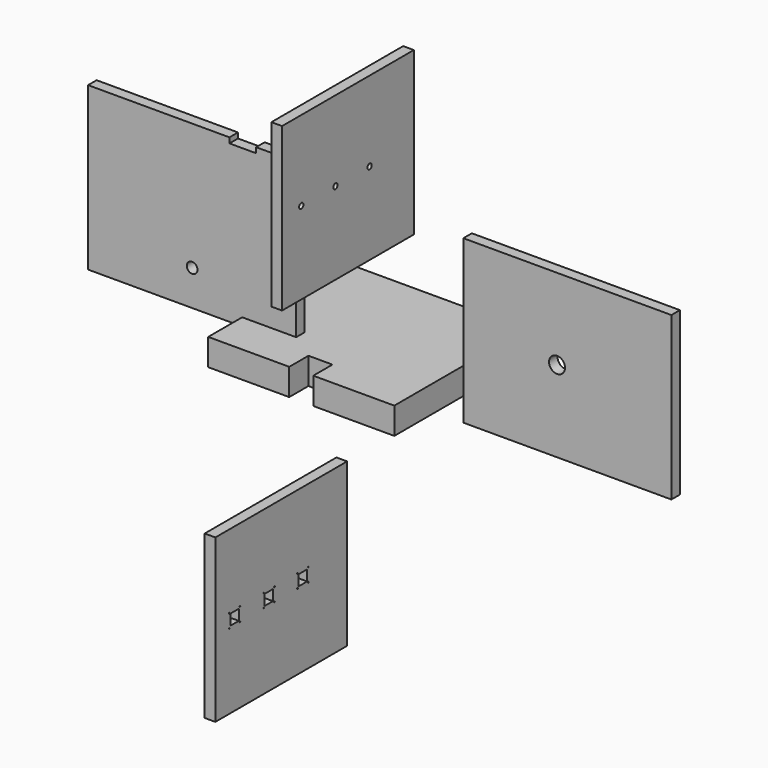
from build123d import *

# Parameters (mm, degrees)
F3_R     = 50.8
F5_DEPTH = 101.6
F4_W     = 1981.2
F4_H     = 1546.225
F4_R     = 76.2
F6_DEPTH = 101.6
F1_W     = 1568.45
F1_H     = 1546.225
F1_R     = 25.4
F7_DEPTH = 101.6
F8_DEPTH = 254
F2_W     = 1568.45
F2_H     = 1546.225
F2_R     = 4.7625
F2_W_2   = 101.6
F2_H_2   = 101.6
F9_DEPTH = 101.6


with BuildPart() as f5:
    # F3 (on Front) → F5 (new body)
    with BuildSketch(Plane.XZ):
        Polygon((-2353.0530816555, 1722.7813414584), (-2353.0530816555, 176.5563414584), (-371.8530816555, 176.5563414584), (-371.8530816555, 1722.7813414584), (-752.8530816555, 1722.7813414584), (-752.8530816555, 1671.9813414584), (-1006.8530816555, 1671.9813414584), (-1006.8530816555, 1722.7813414584), align=None)
        with Locations((-1362.4530816555, 513.7413414584)):
            Circle(F3_R, mode=Mode.SUBTRACT)
    extrude(amount=F5_DEPTH)


with BuildPart() as f6:
    # F4 (on Front) → F6 (new body)
    with BuildSketch(Plane.XZ):
        with Locations((2210.1545845985, 828.5010133985)):
            Rectangle(F4_W, F4_H)
        with Locations((2111.7295845985, 830.0885133985)):
            Circle(F4_R, mode=Mode.SUBTRACT)
    extrude(amount=F6_DEPTH)


with BuildPart() as f7:
    # F1 (on Right) → F7 (new body)
    with BuildSketch(Plane.YZ):
        with Locations((-77.0916448283, 1713.2795558453)):
            Rectangle(F1_W, F1_H)
        with Locations((-632.7166448283, 1724.3920558453)):
            Circle(F1_R, mode=Mode.SUBTRACT)
        with Locations((-226.3166448283, 1724.3920558453)):
            Circle(F1_R, mode=Mode.SUBTRACT)
        with Locations((180.0833551717, 1724.3920558453)):
            Circle(F1_R, mode=Mode.SUBTRACT)
    extrude(amount=F7_DEPTH)


with BuildPart() as f8:
    # F0 (on Top) → F8 (new body)
    with BuildSketch(Plane.XY):
        Polygon((-885.825, 1062.5936732292), (-885.825, -505.8563267708), (-114.3, -505.8563267708), (-114.3, -277.2563267708), (114.3, -277.2563267708), (114.3, -505.8563267708), (885.825, -505.8563267708), (885.825, 1062.5936732292), align=None)
    extrude(amount=F8_DEPTH)


with BuildPart() as f9:
    # F2 (on Right) → F9 (new body)
    with BuildSketch(Plane.YZ):
        with Locations((-870.9858280182, -1411.8208845873)):
            Rectangle(F2_W, F2_H)
        with Locations((-1490.1108280182, -1468.4322137833)):
            Circle(F2_R, mode=Mode.SUBTRACT)
        with Locations((-1363.1108280182, -1464.2083845873)):
            Circle(F2_R, mode=Mode.SUBTRACT)
        with Locations((-1078.9483280182, -1464.2083845873)):
            Circle(F2_R, mode=Mode.SUBTRACT)
        with Locations((-951.9483280182, -1464.2083845873)):
            Circle(F2_R, mode=Mode.SUBTRACT)
        with Locations((-677.3108280182, -1464.2083845873)):
            Circle(F2_R, mode=Mode.SUBTRACT)
        with Locations((-550.3108280182, -1464.2083845873)):
            Circle(F2_R, mode=Mode.SUBTRACT)
        with Locations((-1490.1108280182, -1341.4322137833)):
            Circle(F2_R, mode=Mode.SUBTRACT)
        with Locations((-1426.6108280182, -1400.7083845873)):
            Rectangle(F2_W_2, F2_H_2, mode=Mode.SUBTRACT)
        with Locations((-1363.1108280182, -1337.2083845873)):
            Circle(F2_R, mode=Mode.SUBTRACT)
        with Locations((-1078.9483280182, -1337.2083845873)):
            Circle(F2_R, mode=Mode.SUBTRACT)
        with Locations((-1020.2108280182, -1400.7083845873)):
            Rectangle(F2_W_2, F2_H_2, mode=Mode.SUBTRACT)
        with Locations((-951.9483280182, -1337.2083845873)):
            Circle(F2_R, mode=Mode.SUBTRACT)
        with Locations((-677.3108280182, -1337.2083845873)):
            Circle(F2_R, mode=Mode.SUBTRACT)
        with Locations((-613.8108280182, -1400.7083845873)):
            Rectangle(F2_W_2, F2_H_2, mode=Mode.SUBTRACT)
        with Locations((-550.3108280182, -1337.2083845873)):
            Circle(F2_R, mode=Mode.SUBTRACT)
    extrude(amount=F9_DEPTH)


solid = Compound([f5.part, f6.part, f7.part, f8.part, f9.part])
